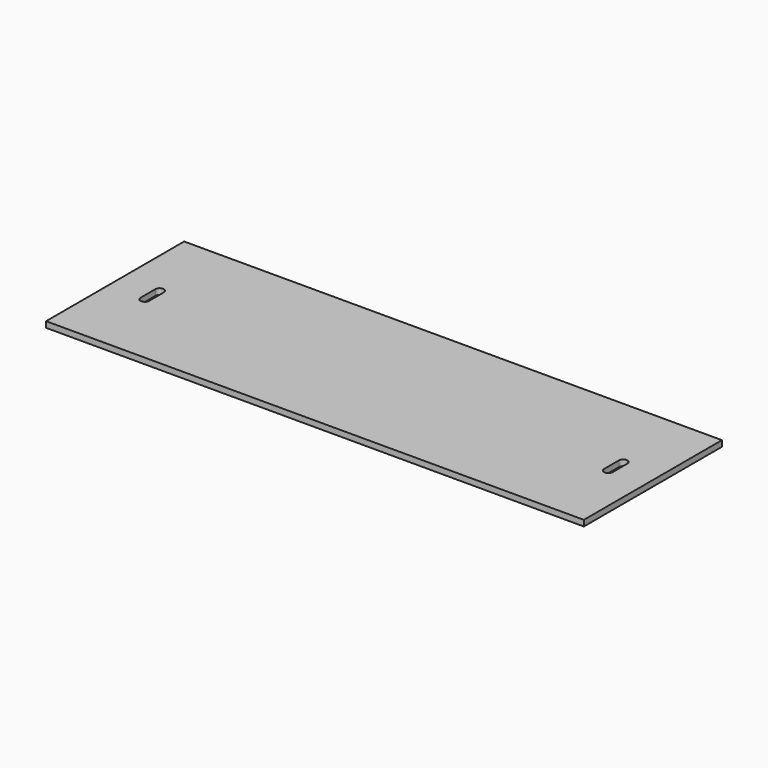
from build123d import *

# Parameters (mm, degrees)
F1_DEPTH = 3.175


with BuildPart() as f1:
    # F0 (on Top) → F1 (new body)
    with BuildSketch(Plane.XY):
        with BuildLine():
            Line((127.2114, -5), (127.2114, 0))
            Line((127.2114, 0), (127.2114, 5))
            ThreePointArc((127.2114, 5), (124.9, 2.6886), (122.5886, 5))
            Line((122.5886, 5), (122.5886, -5))
            ThreePointArc((122.5886, -5), (124.9, -2.6886), (127.2114, -5))
        make_face()
        with BuildLine():
            Line((-127.2114, 5), (-127.2114, 0))
            Line((-127.2114, 0), (-127.2114, -5))
            ThreePointArc((-127.2114, -5), (-124.9, -2.6886), (-122.5886, -5))
            Line((-122.5886, -5), (-122.5886, 5))
            ThreePointArc((-122.5886, 5), (-124.9, 2.6886), (-127.2114, 5))
        make_face()
        Polygon((-144.9, -46.5), (144.9, -46.5), (144.9, 0), (144.9, 46.5), (-144.9, 46.5), (-144.9, 0), align=None)
        with BuildLine():
            Line((-127.2114, -5), (-127.2114, 0))
            Line((-127.2114, 0), (-127.2114, 5))
            ThreePointArc((-127.2114, 5), (-124.9, 7.3114), (-122.5886, 5))
            Line((-122.5886, 5), (-122.5886, -5))
            ThreePointArc((-122.5886, -5), (-124.9, -7.3114), (-127.2114, -5))
        make_face(mode=Mode.SUBTRACT)
        with BuildLine():
            Line((127.2114, 5), (127.2114, 0))
            Line((127.2114, 0), (127.2114, -5))
            ThreePointArc((127.2114, -5), (124.9, -7.3114), (122.5886, -5))
            Line((122.5886, -5), (122.5886, 5))
            ThreePointArc((122.5886, 5), (124.9, 7.3114), (127.2114, 5))
        make_face(mode=Mode.SUBTRACT)
    extrude(amount=F1_DEPTH)


solid = f1.part
